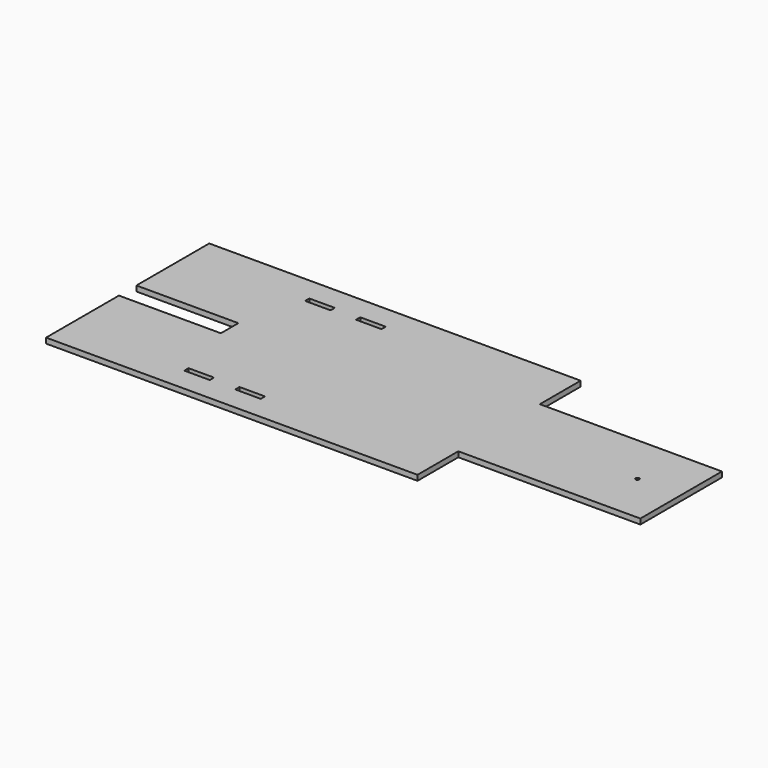
from build123d import *

# Parameters (mm, degrees)
F0_R     = 6.35
F1_DEPTH = 18.542
F2_W     = 88.9
F2_H     = 18.542
F3_DEPTH = 25.4


with BuildPart() as f1:
    # F0 (on Top) → F1 (new body)
    with BuildSketch(Plane.XY):
        Polygon((341.138078, 177.8), (-954.261922, 177.8), (-954.261922, -139.7), (-598.661922, -139.7), (-598.661922, -215.9), (-954.261922, -215.9), (-954.261922, -533.4), (341.138078, -533.4), (341.138078, -355.6), (976.138078, -355.6), (976.138078, 0), (341.138078, 0), align=None)
        with Locations((823.738078, -177.8)):
            Circle(F0_R, mode=Mode.SUBTRACT)
    extrude(amount=F1_DEPTH)

    # F2 (on face) → F3 (cut)
    with BuildSketch(Plane.XY.offset(18.542)):
        with Locations((-494.261886, -441.071)):
            Rectangle(F2_W, F2_H)
        with Locations((-494.261886, 85.471)):
            Rectangle(F2_W, F2_H)
        with Locations((-316.461886, -441.071)):
            Rectangle(F2_W, F2_H)
        with Locations((-316.461886, 85.471)):
            Rectangle(F2_W, F2_H)
    extrude(amount=-F3_DEPTH, mode=Mode.SUBTRACT)


solid = f1.part
